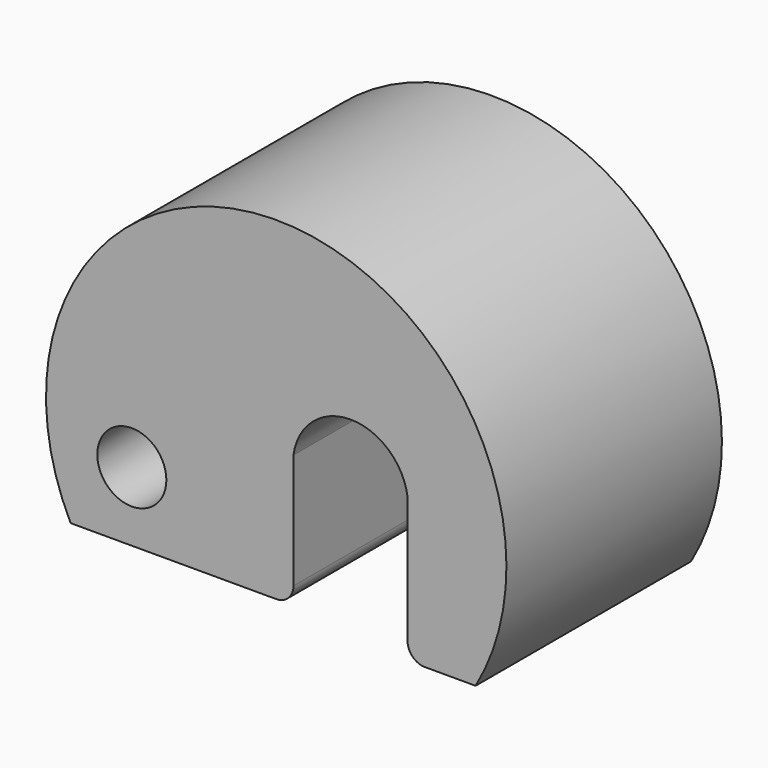
from build123d import *

# Parameters (mm, degrees)
F0_R     = 60
F1_DEPTH = 234


with BuildPart() as f1:
    # F0 (on Front) → F1 (new body, symmetric)
    with BuildSketch(Plane.XZ):
        with BuildLine():
            Line((258.233733, -200), (346.410162, -200))
            ThreePointArc((346.410162, -200), (11.365158, 399.838509), (-357.211422, -180))
            Line((-357.211422, -180), (0, -180))
            ThreePointArc((0, -180), (21.213203, -171.213203), (30, -150))
            Line((30, -150), (30, 0))
            Line((30, 0), (30, 50))
            ThreePointArc((30, 50), (129.116867, 136.739279), (228.233733, 50))
            Line((228.233733, 50), (228.233733, 0))
            Line((228.233733, 0), (228.233733, -170))
            ThreePointArc((228.233733, -170), (237.02053, -191.213203), (258.233733, -200))
        make_face()
        with Locations((-250.883133, -60)):
            Circle(F0_R, mode=Mode.SUBTRACT)
    extrude(amount=F1_DEPTH, both=True)


solid = f1.part
